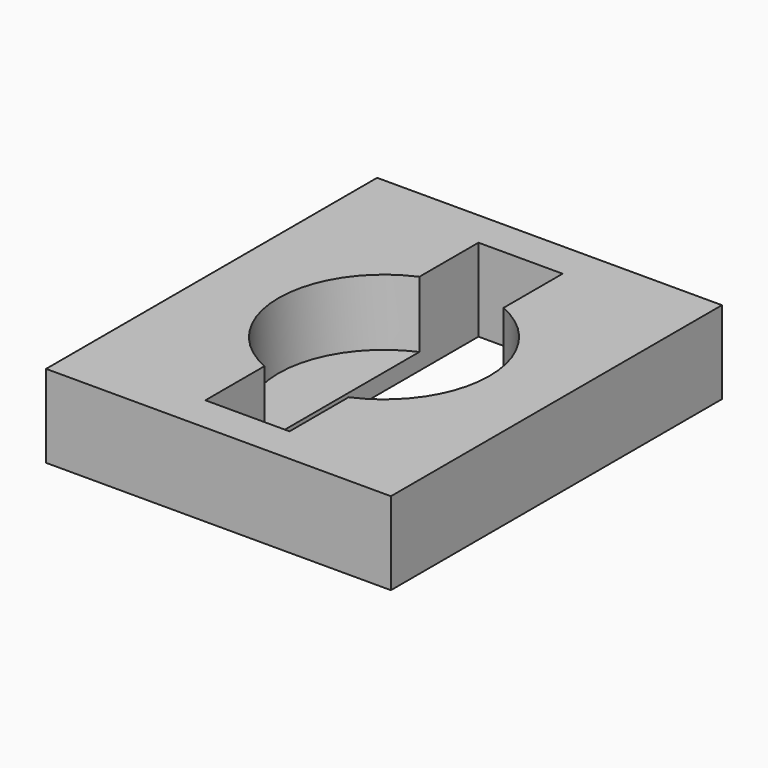
from build123d import *

# Parameters (mm, degrees)
F0_W     = 50
F0_H     = 60
F1_DEPTH = 12
F2_DEPTH = 2.4


with BuildPart() as f1:
    # F0 (on Top) → F1 (new body)
    with BuildSketch(Plane.XY):
        Rectangle(F0_W, F0_H)
        with BuildLine():
            Line((6.1, -14.0313933734), (6.1, -24.75))
            Line((6.1, -24.75), (-6.1, -24.75))
            Line((-6.1, -24.75), (-6.1, -14.0313933734))
            ThreePointArc((-6.1, -14.0313933734), (-15.3, 0), (-6.1, 14.0313933734))
            Line((-6.1, 14.0313933734), (-6.1, 24.75))
            Line((-6.1, 24.75), (6.1, 24.75))
            Line((6.1, 24.75), (6.1, 14.0313933734))
            ThreePointArc((6.1, 14.0313933734), (12.7949208673, 8.3892788725), (15.3, 0))
            ThreePointArc((15.3, 0), (12.7949208673, -8.3892788725), (6.1, -14.0313933734))
        make_face(mode=Mode.SUBTRACT)
    extrude(amount=F1_DEPTH)

    # F0 (on Top) → F2 (join)
    with BuildSketch(Plane.XY):
        with BuildLine():
            ThreePointArc((-6.1, 14.0313933734), (-15.3, 0), (-6.1, -14.0313933734))
            Line((-6.1, -14.0313933734), (-6.1, 14.0313933734))
        make_face()
        with BuildLine():
            Line((6.1, 14.0313933734), (6.1, -14.0313933734))
            ThreePointArc((6.1, -14.0313933734), (12.7949208673, -8.3892788725), (15.3, 0))
            ThreePointArc((15.3, 0), (12.7949208673, 8.3892788725), (6.1, 14.0313933734))
        make_face()
    extrude(amount=F2_DEPTH)


solid = f1.part
